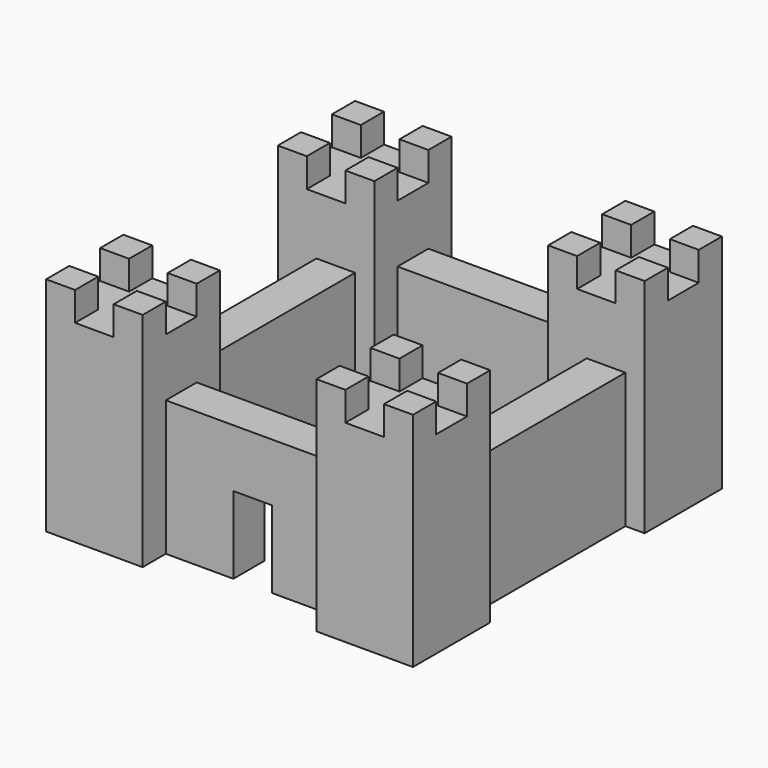
from build123d import *

# Parameters (mm, degrees)
BOX021_W     = 19
BOX021_H     = 2
BOX021_DEPTH = 7
BOX020_W     = 19
BOX020_H     = 2
BOX020_DEPTH = 7
BOX018_W     = 1.5
BOX018_H     = 1.5
BOX018_DEPTH = 11.5
BOX016_W     = 1.5
BOX016_H     = 1.5
BOX016_DEPTH = 11.5
BOX017_W     = 1.5
BOX017_H     = 1.5
BOX017_DEPTH = 11.5
BOX019_W     = 1.5
BOX019_H     = 1.5
BOX019_DEPTH = 11.5
BOX015_W     = 5
BOX015_H     = 5
BOX015_DEPTH = 10
BOX013_W     = 1.5
BOX013_H     = 1.5
BOX013_DEPTH = 11.5
BOX011_W     = 1.5
BOX011_H     = 1.5
BOX011_DEPTH = 11.5
BOX012_W     = 1.5
BOX012_H     = 1.5
BOX012_DEPTH = 11.5
BOX014_W     = 1.5
BOX014_H     = 1.5
BOX014_DEPTH = 11.5
BOX010_W     = 5
BOX010_H     = 5
BOX010_DEPTH = 10
BOX023_W     = 19
BOX023_H     = 2
BOX023_DEPTH = 7
BOX003_W     = 1.5
BOX003_H     = 1.5
BOX003_DEPTH = 11.5
BOX001_W     = 1.5
BOX001_H     = 1.5
BOX001_DEPTH = 11.5
BOX002_W     = 1.5
BOX002_H     = 1.5
BOX002_DEPTH = 11.5
BOX004_W     = 1.5
BOX004_H     = 1.5
BOX004_DEPTH = 11.5
BOX_W        = 5
BOX_H        = 5
BOX_DEPTH    = 10
BOX008_W     = 1.5
BOX008_H     = 1.5
BOX008_DEPTH = 11.5
BOX006_W     = 1.5
BOX006_H     = 1.5
BOX006_DEPTH = 11.5
BOX007_W     = 1.5
BOX007_H     = 1.5
BOX007_DEPTH = 11.5
BOX009_W     = 1.5
BOX009_H     = 1.5
BOX009_DEPTH = 11.5
BOX005_W     = 5
BOX005_H     = 5
BOX005_DEPTH = 10
BOX024_W     = 2
BOX024_H     = 3
BOX024_DEPTH = 4
BOX022_W     = 19
BOX022_H     = 2
BOX022_DEPTH = 7


with BuildPart() as cubo021:
    # Box021 → Box021 (new body)
    with BuildSketch(Plane(origin=(0, 5.5, 0), x_dir=(1, 0, 0), z_dir=(0, 0, 1))):
        with Locations((9.5, 1)):
            Rectangle(BOX021_W, BOX021_H)
    extrude(amount=BOX021_DEPTH)


with BuildPart() as cubo020:
    # Box020 → Box020 (new body)
    with BuildSketch(Plane(origin=(18, -10.5, 0), x_dir=(0, 1, 0), z_dir=(0, 0, 1))):
        with Locations((9.5, 1)):
            Rectangle(BOX020_W, BOX020_H)
    extrude(amount=BOX020_DEPTH)


with BuildPart() as cubo018:
    # Box018 → Box018 (new body)
    with BuildSketch(Plane(origin=(3.5, 3.5, 0), x_dir=(1, 0, 0), z_dir=(0, 0, 1))):
        with Locations((0.75, 0.75)):
            Rectangle(BOX018_W, BOX018_H)
    extrude(amount=BOX018_DEPTH)


with BuildPart() as cubo016:
    # Box016 → Box016 (new body)
    with BuildSketch(Plane(origin=(0, 3.5, 0), x_dir=(1, 0, 0), z_dir=(0, 0, 1))):
        with Locations((0.75, 0.75)):
            Rectangle(BOX016_W, BOX016_H)
    extrude(amount=BOX016_DEPTH)


with BuildPart() as cubo017:
    # Box017 → Box017 (new body)
    with BuildSketch(Plane(origin=(3.5, 0, 0), x_dir=(1, 0, 0), z_dir=(0, 0, 1))):
        with Locations((0.75, 0.75)):
            Rectangle(BOX017_W, BOX017_H)
    extrude(amount=BOX017_DEPTH)


with BuildPart() as cubo019:
    # Box019 → Box019 (new body)
    with BuildSketch(Plane.XY):
        with Locations((0.75, 0.75)):
            Rectangle(BOX019_W, BOX019_H)
    extrude(amount=BOX019_DEPTH)


with BuildPart() as fusion015:
    # Box015 → Box015 (new body)
    with BuildSketch(Plane.XY):
        with Locations((2.5, 2.5)):
            Rectangle(BOX015_W, BOX015_H)
    extrude(amount=BOX015_DEPTH)

    # Fusion012: union Cubo019
    add(cubo019.part)

    # Fusion013: union Cubo017
    add(cubo017.part)

    # Fusion014: union Cubo016
    add(cubo016.part)

    # Fusion015: union Cubo018
    add(cubo018.part)


with BuildPart() as fusion015_1:
    # Fusion015 placement: moved
    add(fusion015.part.moved(Location((14, 4, 0))))


with BuildPart() as cubo013:
    # Box013 → Box013 (new body)
    with BuildSketch(Plane(origin=(3.5, 3.5, 0), x_dir=(1, 0, 0), z_dir=(0, 0, 1))):
        with Locations((0.75, 0.75)):
            Rectangle(BOX013_W, BOX013_H)
    extrude(amount=BOX013_DEPTH)


with BuildPart() as cubo011:
    # Box011 → Box011 (new body)
    with BuildSketch(Plane(origin=(0, 3.5, 0), x_dir=(1, 0, 0), z_dir=(0, 0, 1))):
        with Locations((0.75, 0.75)):
            Rectangle(BOX011_W, BOX011_H)
    extrude(amount=BOX011_DEPTH)


with BuildPart() as cubo012:
    # Box012 → Box012 (new body)
    with BuildSketch(Plane(origin=(3.5, 0, 0), x_dir=(1, 0, 0), z_dir=(0, 0, 1))):
        with Locations((0.75, 0.75)):
            Rectangle(BOX012_W, BOX012_H)
    extrude(amount=BOX012_DEPTH)


with BuildPart() as cubo014:
    # Box014 → Box014 (new body)
    with BuildSketch(Plane.XY):
        with Locations((0.75, 0.75)):
            Rectangle(BOX014_W, BOX014_H)
    extrude(amount=BOX014_DEPTH)


with BuildPart() as fusion011:
    # Box010 → Box010 (new body)
    with BuildSketch(Plane.XY):
        with Locations((2.5, 2.5)):
            Rectangle(BOX010_W, BOX010_H)
    extrude(amount=BOX010_DEPTH)

    # Fusion008: union Cubo014
    add(cubo014.part)

    # Fusion009: union Cubo012
    add(cubo012.part)

    # Fusion010: union Cubo011
    add(cubo011.part)

    # Fusion011: union Cubo013
    add(cubo013.part)


with BuildPart() as fusion011_1:
    # Fusion011 placement: moved
    add(fusion011.part.moved(Location((14, -11, 0))))


with BuildPart() as cubo023:
    # Box023 → Box023 (new body)
    with BuildSketch(Plane(origin=(4, -10.5, 0), x_dir=(0, 1, 0), z_dir=(0, 0, 1))):
        with Locations((9.5, 1)):
            Rectangle(BOX023_W, BOX023_H)
    extrude(amount=BOX023_DEPTH)


with BuildPart() as cubo003:
    # Box003 → Box003 (new body)
    with BuildSketch(Plane(origin=(3.5, 3.5, 0), x_dir=(1, 0, 0), z_dir=(0, 0, 1))):
        with Locations((0.75, 0.75)):
            Rectangle(BOX003_W, BOX003_H)
    extrude(amount=BOX003_DEPTH)


with BuildPart() as cubo001:
    # Box001 → Box001 (new body)
    with BuildSketch(Plane(origin=(0, 3.5, 0), x_dir=(1, 0, 0), z_dir=(0, 0, 1))):
        with Locations((0.75, 0.75)):
            Rectangle(BOX001_W, BOX001_H)
    extrude(amount=BOX001_DEPTH)


with BuildPart() as cubo002:
    # Box002 → Box002 (new body)
    with BuildSketch(Plane(origin=(3.5, 0, 0), x_dir=(1, 0, 0), z_dir=(0, 0, 1))):
        with Locations((0.75, 0.75)):
            Rectangle(BOX002_W, BOX002_H)
    extrude(amount=BOX002_DEPTH)


with BuildPart() as cubo004:
    # Box004 → Box004 (new body)
    with BuildSketch(Plane.XY):
        with Locations((0.75, 0.75)):
            Rectangle(BOX004_W, BOX004_H)
    extrude(amount=BOX004_DEPTH)


with BuildPart() as fusion003:
    # Box → Box (new body)
    with BuildSketch(Plane.XY):
        with Locations((2.5, 2.5)):
            Rectangle(BOX_W, BOX_H)
    extrude(amount=BOX_DEPTH)

    # Fusion: union Cubo004
    add(cubo004.part)

    # Fusion001: union Cubo002
    add(cubo002.part)

    # Fusion002: union Cubo001
    add(cubo001.part)

    # Fusion003: union Cubo003
    add(cubo003.part)


with BuildPart() as fusion003_1:
    # Fusion003 placement: moved
    add(fusion003.part.moved(Location((0, 4, 0))))


with BuildPart() as cubo008:
    # Box008 → Box008 (new body)
    with BuildSketch(Plane(origin=(3.5, 3.5, 0), x_dir=(1, 0, 0), z_dir=(0, 0, 1))):
        with Locations((0.75, 0.75)):
            Rectangle(BOX008_W, BOX008_H)
    extrude(amount=BOX008_DEPTH)


with BuildPart() as cubo006:
    # Box006 → Box006 (new body)
    with BuildSketch(Plane(origin=(0, 3.5, 0), x_dir=(1, 0, 0), z_dir=(0, 0, 1))):
        with Locations((0.75, 0.75)):
            Rectangle(BOX006_W, BOX006_H)
    extrude(amount=BOX006_DEPTH)


with BuildPart() as cubo007:
    # Box007 → Box007 (new body)
    with BuildSketch(Plane(origin=(3.5, 0, 0), x_dir=(1, 0, 0), z_dir=(0, 0, 1))):
        with Locations((0.75, 0.75)):
            Rectangle(BOX007_W, BOX007_H)
    extrude(amount=BOX007_DEPTH)


with BuildPart() as cubo009:
    # Box009 → Box009 (new body)
    with BuildSketch(Plane.XY):
        with Locations((0.75, 0.75)):
            Rectangle(BOX009_W, BOX009_H)
    extrude(amount=BOX009_DEPTH)


with BuildPart() as fusion007:
    # Box005 → Box005 (new body)
    with BuildSketch(Plane.XY):
        with Locations((2.5, 2.5)):
            Rectangle(BOX005_W, BOX005_H)
    extrude(amount=BOX005_DEPTH)

    # Fusion004: union Cubo009
    add(cubo009.part)

    # Fusion005: union Cubo007
    add(cubo007.part)

    # Fusion006: union Cubo006
    add(cubo006.part)

    # Fusion007: union Cubo008
    add(cubo008.part)


with BuildPart() as fusion007_1:
    # Fusion007 placement: moved
    add(fusion007.part.moved(Location((0, -11, 0))))


with BuildPart() as cubo024:
    # Box024 → Box024 (new body)
    with BuildSketch(Plane(origin=(8.5, -10, 0), x_dir=(1, 0, 0), z_dir=(0, 0, 1))):
        with Locations((1, 1.5)):
            Rectangle(BOX024_W, BOX024_H)
    extrude(amount=BOX024_DEPTH)


with BuildPart() as fusion016:
    # Box022 → Box022 (new body)
    with BuildSketch(Plane(origin=(0, -9.5, 0), x_dir=(1, 0, 0), z_dir=(0, 0, 1))):
        with Locations((9.5, 1)):
            Rectangle(BOX022_W, BOX022_H)
    extrude(amount=BOX022_DEPTH)

    # Cut: cut Cubo024
    add(cubo024.part, mode=Mode.SUBTRACT)

    # Fusion016: union Cubo021, Cubo020, Fusion015, Fusion011, Cubo023, Fusion003, Fusion007
    add(cubo021.part)
    add(cubo020.part)
    add(fusion015_1.part)
    add(fusion011_1.part)
    add(cubo023.part)
    add(fusion003_1.part)
    add(fusion007_1.part)


solid = fusion016.part
